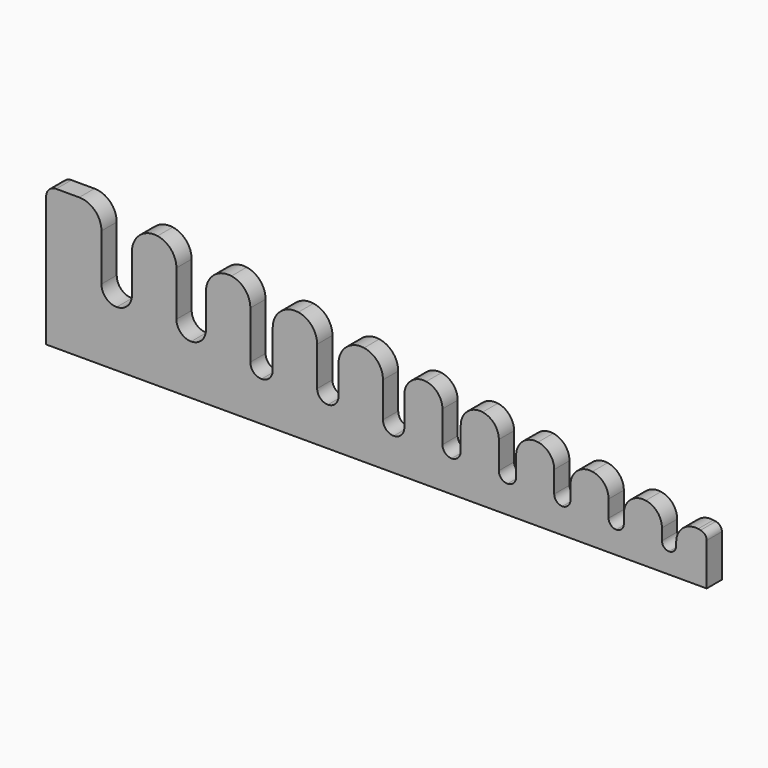
from build123d import *

# Parameters (mm, degrees)
F1_DEPTH = 4.7625


with BuildPart() as f1:
    # F0 (on Front) → F1 (new body)
    with BuildSketch(Plane.XZ):
        with BuildLine():
            Line((0, 32.512), (0, 0))
            Line((0, 0), (165.1, 0))
            Line((165.1, 0), (165.1, 10.570061))
            ThreePointArc((165.1, 10.570061), (164.670255, 11.729152), (163.588759, 12.327935))
            Line((163.588759, 12.327935), (162.957034, 12.4238))
            ThreePointArc((162.957034, 12.4238), (159.137791, 11.326604), (157.48, 7.715207))
            Line((157.48, 7.715207), (157.48, 6.858))
            ThreePointArc((157.48, 6.858), (156.959236, 5.600764), (155.702, 5.08))
            ThreePointArc((155.702, 5.08), (154.444764, 5.600764), (153.924, 6.858))
            Line((153.924, 6.858), (153.924, 9.700262))
            ThreePointArc((153.924, 9.700262), (152.772897, 12.804971), (149.876034, 14.408855))
            ThreePointArc((149.876034, 14.408855), (146.056791, 13.311659), (144.399, 9.700262))
            Line((144.399, 9.700262), (144.399, 7.493))
            ThreePointArc((144.399, 7.493), (143.841038, 6.145962), (142.494, 5.588))
            ThreePointArc((142.494, 5.588), (141.146962, 6.145962), (140.589, 7.493))
            Line((140.589, 7.493), (140.589, 11.723861))
            ThreePointArc((140.589, 11.723861), (139.437897, 14.82857), (136.541034, 16.432454))
            ThreePointArc((136.541034, 16.432454), (132.721791, 15.335258), (131.064, 11.723861))
            Line((131.064, 11.723861), (131.064, 8.382))
            ThreePointArc((131.064, 8.382), (130.468841, 6.945159), (129.032, 6.35))
            ThreePointArc((129.032, 6.35), (127.595159, 6.945159), (127, 8.382))
            Line((127, 8.382), (127, 13.786005))
            ThreePointArc((127, 13.786005), (125.848897, 16.890714), (122.952034, 18.494598))
            ThreePointArc((122.952034, 18.494598), (119.132791, 17.397402), (117.475, 13.786005))
            Line((117.475, 13.786005), (117.475, 9.017))
            ThreePointArc((117.475, 9.017), (116.842644, 7.490356), (115.316, 6.858))
            ThreePointArc((115.316, 6.858), (113.789356, 7.490356), (113.157, 9.017))
            Line((113.157, 9.017), (113.157, 15.886694))
            ThreePointArc((113.157, 15.886694), (112.005897, 18.991403), (109.109034, 20.595287))
            ThreePointArc((109.109034, 20.595287), (105.289791, 19.49809), (103.632, 15.886694))
            Line((103.632, 15.886694), (103.632, 10.16))
            ThreePointArc((103.632, 10.16), (102.962446, 8.543554), (101.346, 7.874))
            ThreePointArc((101.346, 7.874), (99.729554, 8.543554), (99.06, 10.16))
            Line((99.06, 10.16), (99.06, 18.025927))
            ThreePointArc((99.06, 18.025927), (97.908897, 21.130637), (95.012034, 22.73452))
            ThreePointArc((95.012034, 22.73452), (91.192791, 21.637324), (89.535, 18.025927))
            Line((89.535, 18.025927), (89.535, 10.795))
            ThreePointArc((89.535, 10.795), (88.753854, 8.909146), (86.868, 8.128))
            ThreePointArc((86.868, 8.128), (84.982146, 8.909146), (84.201, 10.795))
            Line((84.201, 10.795), (84.201, 19.59841))
            ThreePointArc((84.201, 19.59841), (82.858046, 23.220571), (79.478372, 25.091768))
            ThreePointArc((79.478372, 25.091768), (75.022589, 23.811706), (73.0885, 19.59841))
            Line((73.0885, 19.59841), (73.0885, 12.319))
            ThreePointArc((73.0885, 12.319), (72.307354, 10.433146), (70.4215, 9.652))
            ThreePointArc((70.4215, 9.652), (68.535646, 10.433146), (67.7545, 12.319))
            Line((67.7545, 12.319), (67.7545, 22.094182))
            ThreePointArc((67.7545, 22.094182), (66.411546, 25.716343), (63.031872, 27.587541))
            ThreePointArc((63.031872, 27.587541), (58.576089, 26.307478), (56.642, 22.094182))
            Line((56.642, 22.094182), (56.642, 12.7))
            ThreePointArc((56.642, 12.7), (55.823656, 10.724344), (53.848, 9.906))
            ThreePointArc((53.848, 9.906), (51.872344, 10.724344), (51.054, 12.7))
            Line((51.054, 12.7), (51.054, 24.628499))
            ThreePointArc((51.054, 24.628499), (49.711046, 28.25066), (46.331372, 30.121858))
            ThreePointArc((46.331372, 30.121858), (41.875589, 28.841796), (39.9415, 24.628499))
            Line((39.9415, 24.628499), (39.9415, 16.129))
            ThreePointArc((39.9415, 16.129), (38.862774, 13.524726), (36.2585, 12.446))
            ThreePointArc((36.2585, 12.446), (33.654226, 13.524726), (32.5755, 16.129))
            Line((32.5755, 16.129), (32.5755, 27.43263))
            ThreePointArc((32.5755, 27.43263), (31.232546, 31.054791), (27.852872, 32.925988))
            ThreePointArc((27.852872, 32.925988), (23.397089, 31.645926), (21.463, 27.43263))
            Line((21.463, 27.43263), (21.463, 17.78))
            ThreePointArc((21.463, 17.78), (20.347077, 15.085923), (17.653, 13.97))
            ThreePointArc((17.653, 13.97), (14.958923, 15.085923), (13.843, 17.78))
            Line((13.843, 17.78), (13.843, 29.49575))
            ThreePointArc((13.843, 29.49575), (12.215612, 33.424612), (8.28675, 35.052))
            Line((8.28675, 35.052), (2.54, 35.052))
            ThreePointArc((2.54, 35.052), (0.743949, 34.308051), (0, 32.512))
        make_face()
    extrude(amount=F1_DEPTH)


solid = f1.part
